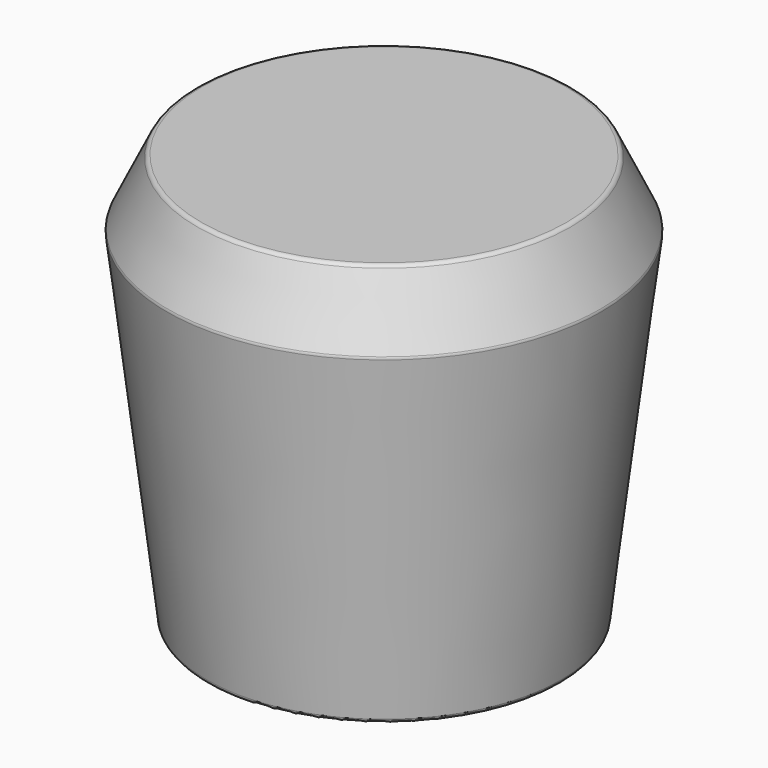
from build123d import *

# Parameters (mm, degrees)
F2_R = 0.508


with BuildPart() as f1:
    # F0 (on Front) → F1 (revolve)
    with BuildSketch(Plane.XZ):
        Polygon((10.31875, 37.039871), (10.31875, 0), (19.05, 0), (23.500199, 37.039871), (20.066, 44.196), (0, 44.196), (0, 37.039871), align=None)
    revolve(axis=Axis((0, 0, 22.098), (0, 0, 1)))

    # F2
    f2_edges = [f1.edges().sort_by_distance(p)[0] for p in [
        (-20.066, 0, 44.196),
        (-19.05, 0, 0),
        (-23.500199, 0, 37.039871),
        (-10.31875, 0, 0),
    ]]
    fillet(f2_edges, radius=F2_R)


solid = f1.part
